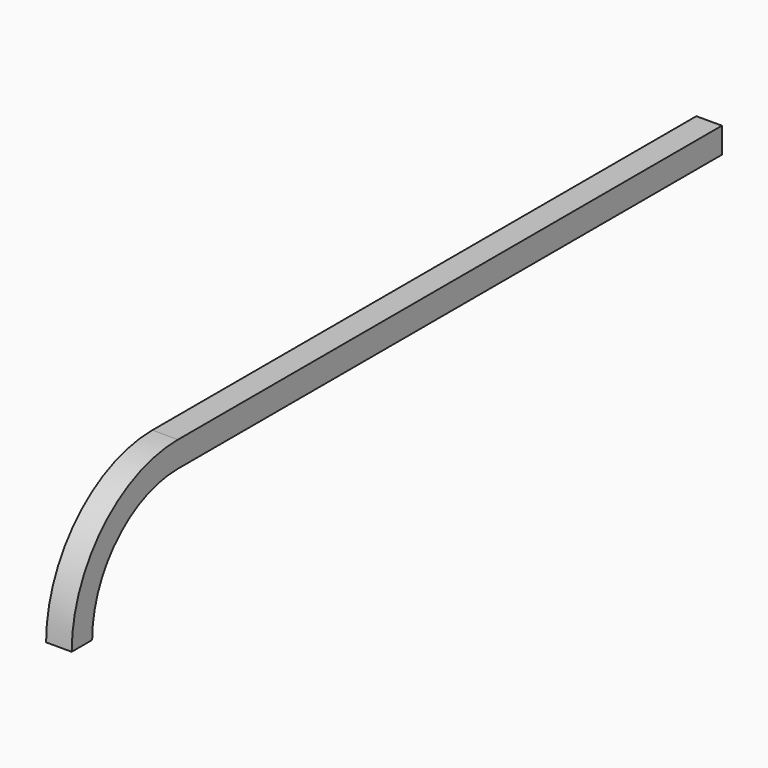
from build123d import *

# Parameters (mm, degrees)
F0_W   = 16
F0_H   = 16
F0_W_2 = 13
F0_H_2 = 13


with BuildPart() as f2:
    # F2: sweep along a path in F1
    with BuildLine(Plane.YZ) as f2_path:
        Line((0, 0), (-425, 0))
        ThreePointArc((-425, 0), (-478.033009, -21.966991), (-500, -75))
    # F0 (on Front) → F2 (sweep)
    with BuildSketch(Plane.XZ):
        Rectangle(F0_W, F0_H)
        Rectangle(F0_W_2, F0_H_2, mode=Mode.SUBTRACT)
    sweep(path=f2_path.line)


solid = f2.part
